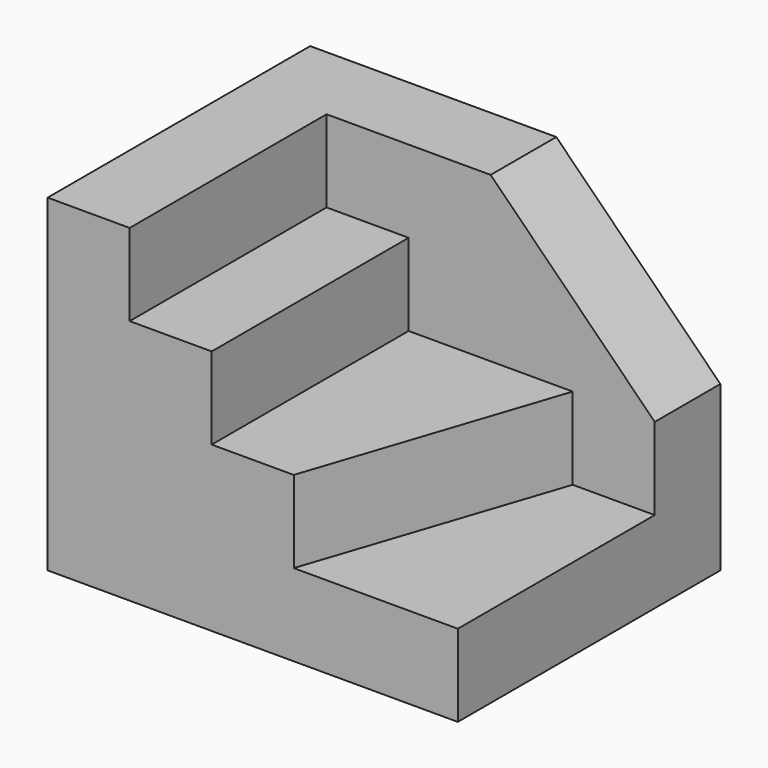
from build123d import *

# Parameters (mm, degrees)
SKETCH_W     = 40
SKETCH_H     = 30
PAD_DEPTH    = 10
PAD001_DEPTH = 40
SKETCH002_W  = 10
SKETCH002_H  = 30
PAD002_DEPTH = 20
SKETCH004_W  = 10
SKETCH004_H  = 10
PAD003_DEPTH = 20
SKETCH005_W  = 20
SKETCH005_H  = 10
PAD004_DEPTH = 10
PAD005_DEPTH = 10
PAD006_DEPTH = 10


with BuildPart() as part:
    # Sketch → Pad (new body)
    with BuildSketch(Plane.XY):
        with Locations((20, 15)):
            Rectangle(SKETCH_W, SKETCH_H)
    extrude(amount=PAD_DEPTH)

    # Sketch001 (on Face5 of Pad) → Pad001 (join)
    with BuildSketch(Plane(origin=(0, 0, 0), x_dir=(1, 0, 0), z_dir=(0, 0, -1))):
        Polygon((0, 0), (-10, 0), (-10, -40), (20, -40), (20, -30), (0, -30), align=None)
    extrude(amount=-PAD001_DEPTH)

    # Sketch002 (on Face4 of Pad001) → Pad002 (join)
    with BuildSketch(Plane.XY.offset(10)):
        with Locations((5, 15)):
            Rectangle(SKETCH002_W, SKETCH002_H)
    extrude(amount=PAD002_DEPTH)

    # Sketch004 (on Face5 of Pad002) → Pad003 (join)
    with BuildSketch(Plane.YZ.offset(40)):
        with Locations((35, 5)):
            Rectangle(SKETCH004_W, SKETCH004_H)
    extrude(amount=-PAD003_DEPTH)

    # Sketch005 (on Face8 of Pad003) → Pad004 (join)
    with BuildSketch(Plane.XZ.offset(-30)):
        with Locations((30, 15)):
            Rectangle(SKETCH005_W, SKETCH005_H)
    extrude(amount=-PAD004_DEPTH)

    # Sketch006 (on Face13 of Pad004) → Pad005 (join)
    with BuildSketch(Plane.XZ.offset(-30)):
        Polygon((20, 40), (40, 20), (20, 20), align=None)
    extrude(amount=-PAD005_DEPTH)

    # Sketch007 (on Face6 of Pad005) → Pad006 (join)
    with BuildSketch(Plane.XY.offset(10)):
        Polygon((10, 30), (10, 0), (20, 0), (30, 30), align=None)
    extrude(amount=PAD006_DEPTH)


solid = part.part
